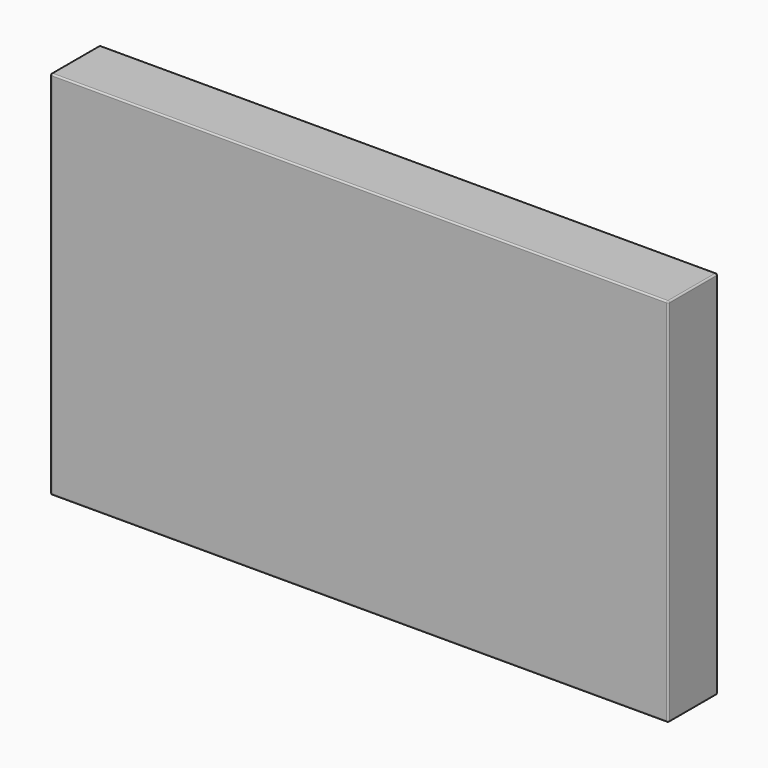
from build123d import *

# Parameters (mm, degrees)
F0_W     = 2000
F0_H     = 1200
F1_DEPTH = 25
F2_DEPTH = 200
F3_R     = 5


with BuildPart() as f1:
    # F0 (on Front) → F1 (new body)
    with BuildSketch(Plane.XZ):
        with Locations((794.464558, 600)):
            Rectangle(F0_W, F0_H)
    extrude(amount=F1_DEPTH)

    # F0 (on Front) → F2 (join)
    with BuildSketch(Plane.XZ):
        with Locations((794.464558, 600)):
            Rectangle(F0_W, F0_H)
    extrude(amount=F2_DEPTH)

    # F3
    f3_edges = [f1.edges().sort_by_distance(p)[0] for p in [
        (794.464558, -200, 1200),
        (-205.535442, -200, 600),
        (794.464558, -200, 0),
        (1794.464558, -200, 600),
        (-205.535442, -100, 0),
        (1794.464558, -100, 0),
        (794.464558, 0, 0),
        (1794.464558, -100, 1200),
        (1794.464558, 0, 600),
        (-205.535442, 0, 600),
        (794.464558, 0, 1200),
        (-205.535442, -100, 1200),
    ]]
    fillet(f3_edges, radius=F3_R)


solid = f1.part
